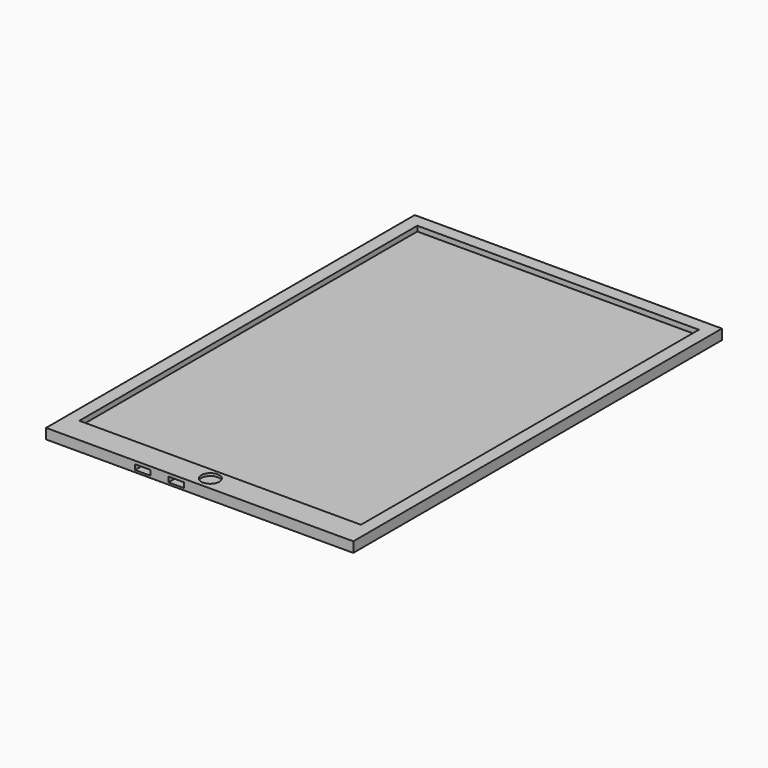
from build123d import *

# Parameters (mm, degrees)
F0_W     = 152.4
F0_H     = 228.6
F1_DEPTH = 5.08
F2_DEPTH = 2.54
F3_R     = 4.486697
F4_DEPTH = 1.27
F5_W     = 7.62
F5_H     = 2.54
F6_DEPTH = 5.08


with BuildPart() as f1:
    # F0 (on Top) → F1 (new body)
    with BuildSketch(Plane.XY):
        Rectangle(F0_W, F0_H)
        Polygon((69.85, -101.6), (-69.85, -101.6), (-69.85, 101.6), (-69.85, 107.95), (69.85, 107.95), (69.85, 101.6), align=None, mode=Mode.SUBTRACT)
    extrude(amount=F1_DEPTH)

    # F0 (on Top) → F2 (join)
    with BuildSketch(Plane.XY):
        Polygon((-69.85, 101.6), (-69.85, -101.6), (69.85, -101.6), (69.85, 101.6), (69.85, 107.95), (-69.85, 107.95), align=None)
    extrude(amount=F2_DEPTH)

    # F3 (on face) → F4 (cut)
    with BuildSketch(Plane.XY.offset(5.08)):
        with Locations((0, -107.710503)):
            Circle(F3_R)
    extrude(amount=-F4_DEPTH, mode=Mode.SUBTRACT)

    # F5 (on face) → F6 (cut)
    with BuildSketch(Plane.XZ.offset(114.3)):
        with Locations((-28.262435, 2.286)):
            Rectangle(F5_W, F5_H)
        with Locations((-11.677729, 2.286)):
            Rectangle(F5_W, F5_H)
    extrude(amount=-F6_DEPTH, mode=Mode.SUBTRACT)


solid = f1.part
